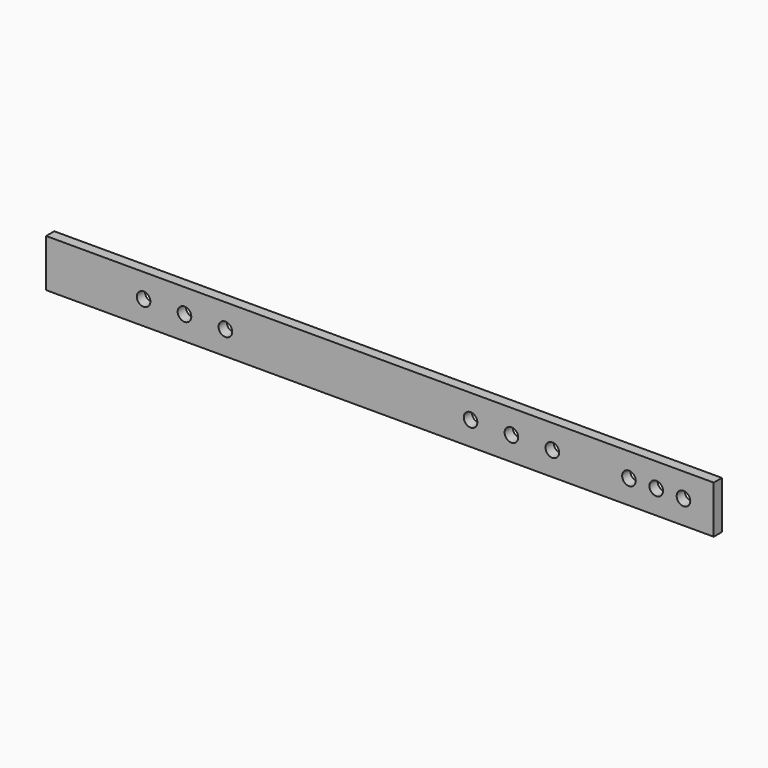
from build123d import *

# Parameters (mm, degrees)
F0_W     = 1244.6
F0_H     = 88.9
F0_R     = 12.7
F1_DEPTH = 19.05


with BuildPart() as f1:
    # F0 (on Front) → F1 (new body)
    with BuildSketch(Plane.XZ):
        with Locations((-2087.25102, -2790.958985)):
            Rectangle(F0_W, F0_H)
        with Locations((-2527.766928, -2790.958985)):
            Circle(F0_R, mode=Mode.SUBTRACT)
        with Locations((-2451.566928, -2790.958985)):
            Circle(F0_R, mode=Mode.SUBTRACT)
        with Locations((-2375.366928, -2790.958985)):
            Circle(F0_R, mode=Mode.SUBTRACT)
        with Locations((-1918.260349, -2790.958985)):
            Circle(F0_R, mode=Mode.SUBTRACT)
        with Locations((-1842.060349, -2790.958985)):
            Circle(F0_R, mode=Mode.SUBTRACT)
        with Locations((-1765.860349, -2790.958985)):
            Circle(F0_R, mode=Mode.SUBTRACT)
        with Locations((-1622.985349, -2790.958985)):
            Circle(F0_R, mode=Mode.SUBTRACT)
        with Locations((-1572.185349, -2790.958985)):
            Circle(F0_R, mode=Mode.SUBTRACT)
        with Locations((-1521.385349, -2790.958985)):
            Circle(F0_R, mode=Mode.SUBTRACT)
    extrude(amount=F1_DEPTH)


solid = f1.part
